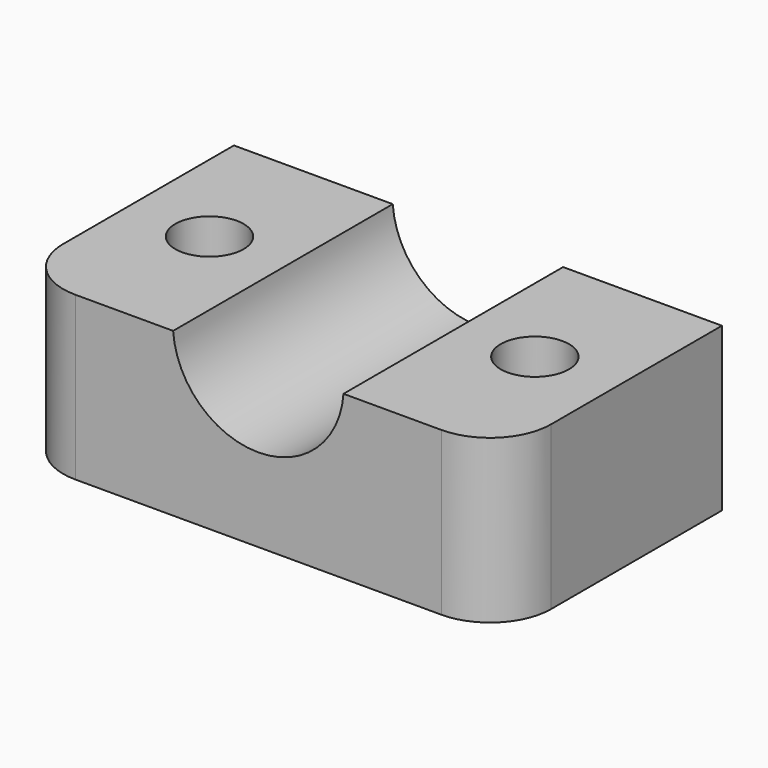
from build123d import *

# Parameters (mm, degrees)
BOX002_W        = 24
BOX002_H        = 13.5
BOX002_DEPTH    = 8
SKETCH003_R     = 4.2
POCKET003_DEPTH = 14
SKETCH004_R     = 1.68
POCKET004_DEPTH = 8.001
FILLET_R        = 3


with BuildPart() as part:
    # Box002 → Box002 (new body)
    with BuildSketch(Plane(origin=(-2.5, 33, 0), x_dir=(1, 0, 0), z_dir=(0, 0, 1))):
        with Locations((12, 6.75)):
            Rectangle(BOX002_W, BOX002_H)
    extrude(amount=BOX002_DEPTH)

    # Sketch003 → Pocket003 (cut)
    with BuildSketch(Plane(origin=(-2.5, 46.5, 0), x_dir=(-1, 0, 0), z_dir=(0, 1, 0))):
        with Locations((-12, 8.3)):
            Circle(SKETCH003_R)
    extrude(amount=-POCKET003_DEPTH, mode=Mode.SUBTRACT)

    # Sketch004 → Pocket004 (cut, through all)
    with BuildSketch(Plane(origin=(-2.5, 33, 0), x_dir=(1, 0, 0), z_dir=(0, 0, -1))):
        with Locations((4, -7)):
            Circle(SKETCH004_R)
        with Locations((20, -7)):
            Circle(SKETCH004_R)
    extrude(amount=-POCKET004_DEPTH, mode=Mode.SUBTRACT)

    # Fillet
    fillet_edges = [part.edges().sort_by_distance(p)[0] for p in [
        (21.5, 33, 4),
        (-2.5, 33, 4),
    ]]
    fillet(fillet_edges, radius=FILLET_R)


solid = part.part
